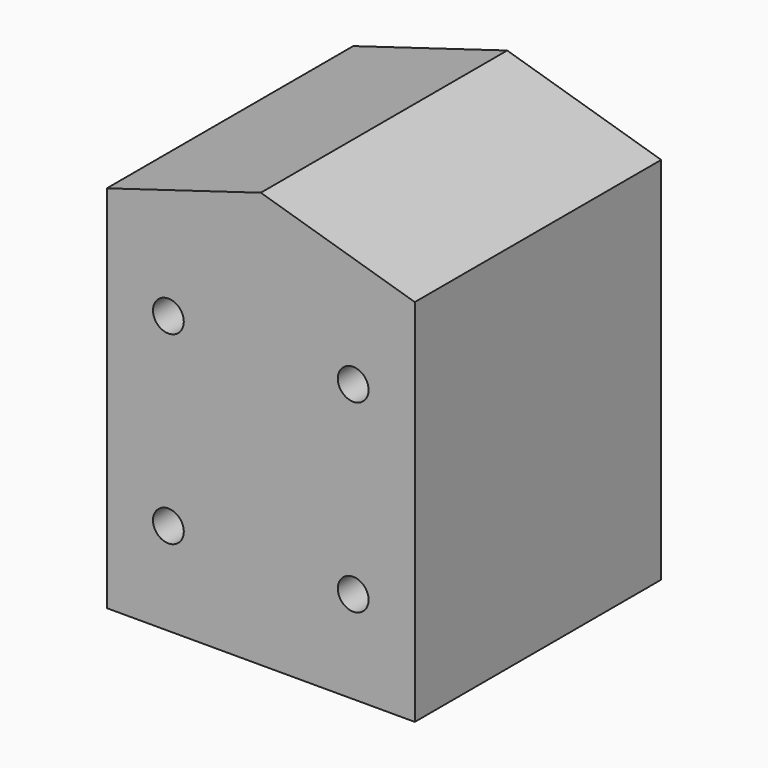
from build123d import *

# Parameters (mm, degrees)
F0_W     = 63.5
F0_H     = 76.2
F1_DEPTH = 31.75
F3_DEPTH = 63.5
F5_D     = 6.35


with BuildPart() as f1:
    # F0 (on Front) → F1 (new body, symmetric)
    with BuildSketch(Plane.XZ):
        Rectangle(F0_W, F0_H)
    extrude(amount=F1_DEPTH, both=True)

    # F2 (on face) → F3 (join, through all)
    with BuildSketch(Plane.XZ.offset(31.75)):
        Polygon((0, 47.625), (-31.75, 38.1), (31.75, 38.1), align=None)
    extrude(amount=-F3_DEPTH)

    # F5 (through all)
    with Locations(Plane(origin=(0, 31.75, 0), x_dir=(-1, 0, 0), z_dir=(0, 1, 0))):
        with Locations((-19.05, 19.05), (19.05, 19.05), (-19.05, -19.05), (19.05, -19.05)):
            Hole(F5_D / 2)


solid = f1.part
